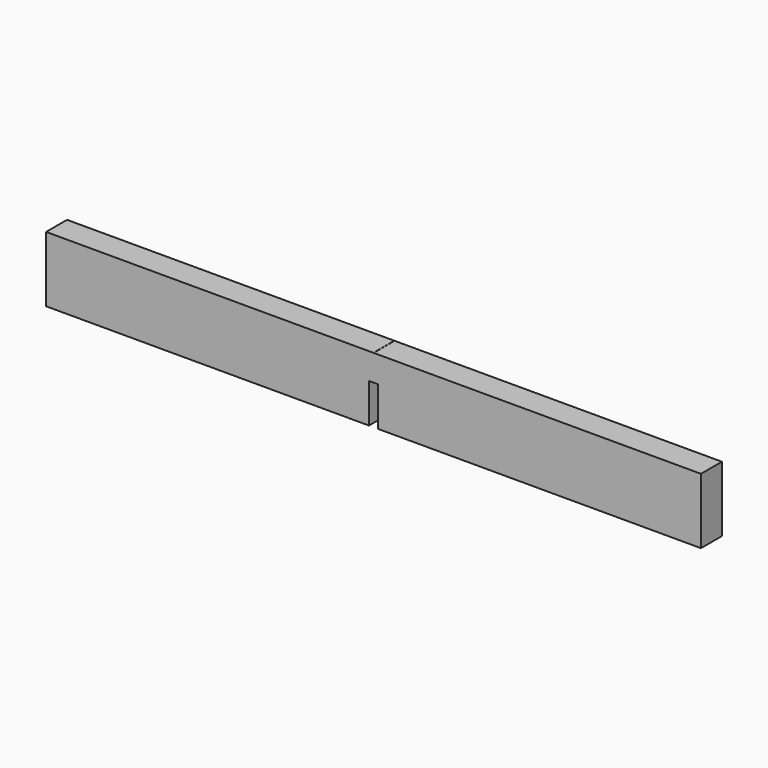
from build123d import *

# Parameters (mm, degrees)
F1_DEPTH = 2
F2_W     = 0.01
F2_H     = 2
F3_DEPTH = 0.01
F4_W     = 0.01
F4_H     = 2
F5_DEPTH = 0.01


with BuildPart() as f1:
    # F0 (on Front) → F1 (new body)
    with BuildSketch(Plane.XZ):
        Polygon((0.35, 3), (0.35, 0), (25, 0), (25, 5), (0, 5), (-25, 5), (-25, 0), (-0.35, 0), (-0.35, 3), (0, 3), align=None)
    extrude(amount=F1_DEPTH)

    # F2 (on face) → F3 (join)
    with BuildSketch(Plane(origin=(0, 0, 0), x_dir=(1, 0, 0), z_dir=(0, 0, -1))):
        with Locations((16.446504, 0.998741)):
            Rectangle(F2_W, F2_H)
        with Locations((-16.628518, 1)):
            Rectangle(F2_W, F2_H)
    extrude(amount=F3_DEPTH)

    # F4 (on face) → F5 (join)
    with BuildSketch(Plane.XY.offset(5)):
        with Locations((0, -1)):
            Rectangle(F4_W, F4_H)
    extrude(amount=F5_DEPTH)


solid = f1.part
